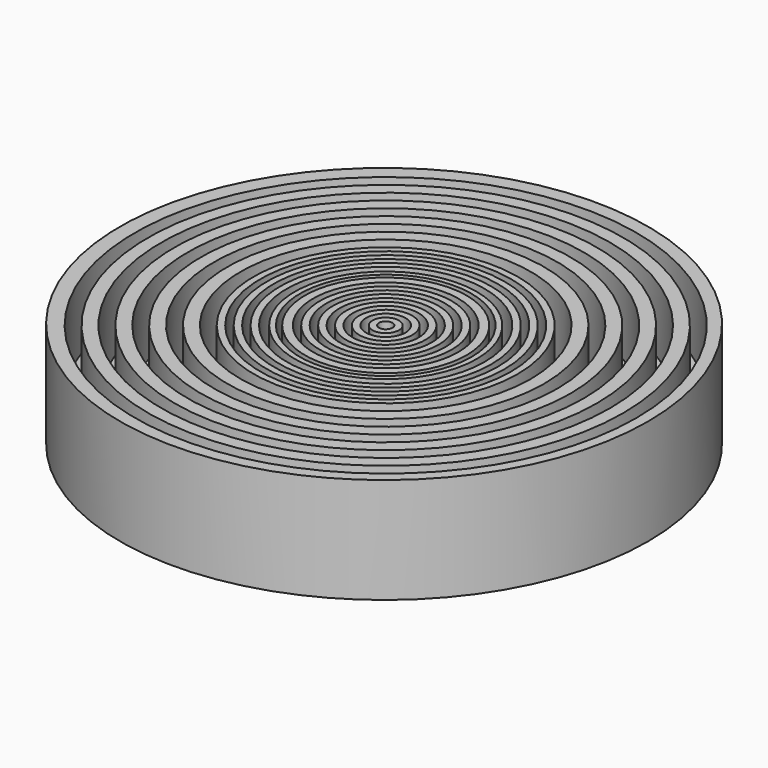
from build123d import *

# Parameters (mm, degrees)
F0_R     = 100
F1_DEPTH = 15
F2_R     = 100
F2_R_2   = 95
F2_R_3   = 90
F2_R_4   = 85
F2_R_5   = 80
F2_R_6   = 75
F2_R_7   = 70
F2_R_8   = 65
F2_R_9   = 60
F2_R_10  = 55
F2_R_11  = 50
F2_R_12  = 47.5
F2_R_13  = 45
F2_R_14  = 42.5
F2_R_15  = 40
F2_R_16  = 37.5
F2_R_17  = 34.49781
F2_R_18  = 32.5
F2_R_19  = 30.638618
F2_R_20  = 27.5
F2_R_21  = 25
F2_R_22  = 22.5
F2_R_23  = 20
F2_R_24  = 17.5
F2_R_25  = 15
F2_R_26  = 12.5
F2_R_27  = 10
F2_R_28  = 7.5
F2_R_29  = 5
F2_R_30  = 2.558285
F3_DEPTH = 25
F4_R     = 20
F5_DEPTH = 5


with BuildPart() as f1:
    # F0 (on Top) → F1 (new body)
    with BuildSketch(Plane.XY):
        with Locations((-0.907258, 0.362903)):
            Circle(F0_R)
    extrude(amount=F1_DEPTH)

    # F2 (on face) → F3 (join)
    with BuildSketch(Plane.XY.offset(15)):
        with Locations((-0.907258, 0.362903)):
            Circle(F2_R)
        Circle(F2_R_2, mode=Mode.SUBTRACT)
        Circle(F2_R_3)
        Circle(F2_R_4, mode=Mode.SUBTRACT)
        Circle(F2_R_5)
        Circle(F2_R_6, mode=Mode.SUBTRACT)
        Circle(F2_R_7)
        Circle(F2_R_8, mode=Mode.SUBTRACT)
        Circle(F2_R_9)
        Circle(F2_R_10, mode=Mode.SUBTRACT)
        Circle(F2_R_11)
        Circle(F2_R_12, mode=Mode.SUBTRACT)
        Circle(F2_R_13)
        Circle(F2_R_14, mode=Mode.SUBTRACT)
        Circle(F2_R_15)
        Circle(F2_R_16, mode=Mode.SUBTRACT)
        Circle(F2_R_17)
        Circle(F2_R_18, mode=Mode.SUBTRACT)
        Circle(F2_R_19)
        Circle(F2_R_20, mode=Mode.SUBTRACT)
        Circle(F2_R_21)
        Circle(F2_R_22, mode=Mode.SUBTRACT)
        Circle(F2_R_23)
        Circle(F2_R_24, mode=Mode.SUBTRACT)
        Circle(F2_R_25)
        Circle(F2_R_26, mode=Mode.SUBTRACT)
        Circle(F2_R_27)
        Circle(F2_R_28, mode=Mode.SUBTRACT)
        Circle(F2_R_29)
        Circle(F2_R_30, mode=Mode.SUBTRACT)
    extrude(amount=F3_DEPTH)

    # F4 (on face) → F5 (join)
    with BuildSketch(Plane(origin=(0, 0, 0), x_dir=(1, 0, 0), z_dir=(0, 0, -1))):
        Circle(F4_R)
    extrude(amount=F5_DEPTH)


solid = f1.part
